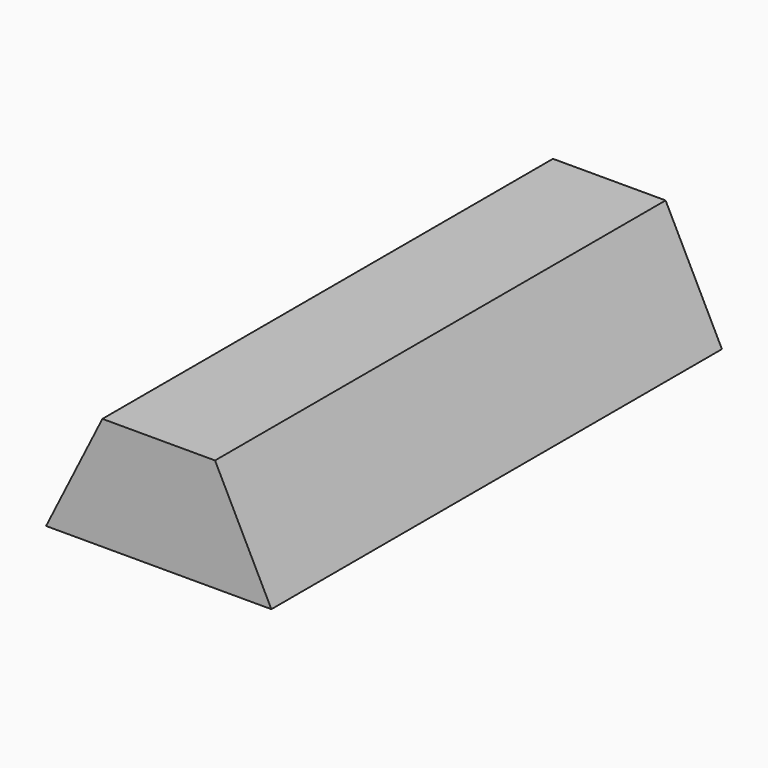
from build123d import *

# Parameters (mm, degrees)
PAD_DEPTH = 100


with BuildPart() as part:
    # Sketch → Pad (new body)
    with BuildSketch(Plane.XZ):
        Polygon((-20, 0), (-10, 20), (10, 20), (20, 0), align=None)
    extrude(amount=PAD_DEPTH)


solid = part.part
